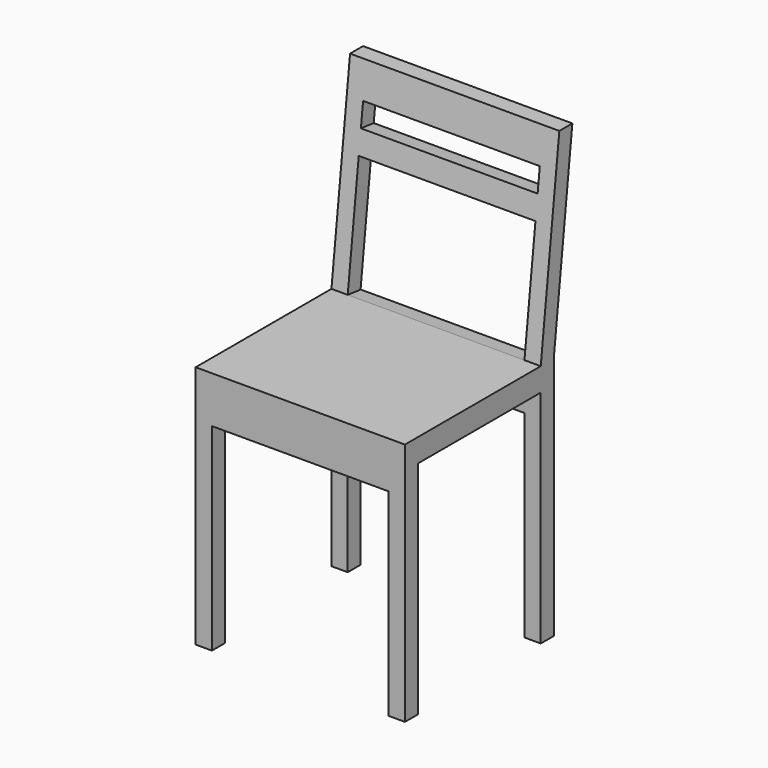
from build123d import *

# Parameters (mm, degrees)
F0_W     = 450
F0_H     = 450
F1_DEPTH = 950
F2_W     = 330
F2_H     = 475
F2_W_2   = 50
F2_H_2   = 50
F3_DEPTH = 450.001
F4_W     = 380
F4_H     = 425
F5_DEPTH = 450.001
F6_W     = 380
F6_H     = 50
F6_H_2   = 252.931069
F7_DEPTH = 145.760456


with BuildPart() as f1:
    # F0 (on Top) → F1 (new body)
    with BuildSketch(Plane.XY):
        Rectangle(F0_W, F0_H)
    extrude(amount=F1_DEPTH)

    # F2 (on face) → F3 (cut, through all)
    with BuildSketch(Plane.YZ.offset(225)):
        with Locations((-25, 237.5)):
            Rectangle(F2_W, F2_H)
        Polygon((-225, 525), (140, 525), (190, 950), (-225, 950), align=None)
        with Locations((200, 237.5)):
            Rectangle(F2_W_2, F2_H)
        with Locations((200, 500)):
            Rectangle(F2_W_2, F2_H_2)
        Polygon((175, 525), (225, 525), (225, 950), align=None)
    extrude(amount=-F3_DEPTH, mode=Mode.SUBTRACT)

    # F4 (on face) → F5 (cut, through all)
    with BuildSketch(Plane.XZ.offset(225)):
        with Locations((0, 212.5)):
            Rectangle(F4_W, F4_H)
    extrude(amount=-F5_DEPTH, mode=Mode.SUBTRACT)

    # F6 (on face) → F7 (cut, through all)
    with BuildSketch(Plane(origin=(0, 77.167235, -9.078498), x_dir=(1, 0, 0), z_dir=(0, -0.993151, 0.116841))):
        with Locations((0, 865.692911)):
            Rectangle(F6_W, F6_H)
        with Locations((0, 664.227376)):
            Rectangle(F6_W, F6_H_2)
    extrude(amount=-F7_DEPTH, mode=Mode.SUBTRACT)


solid = f1.part
